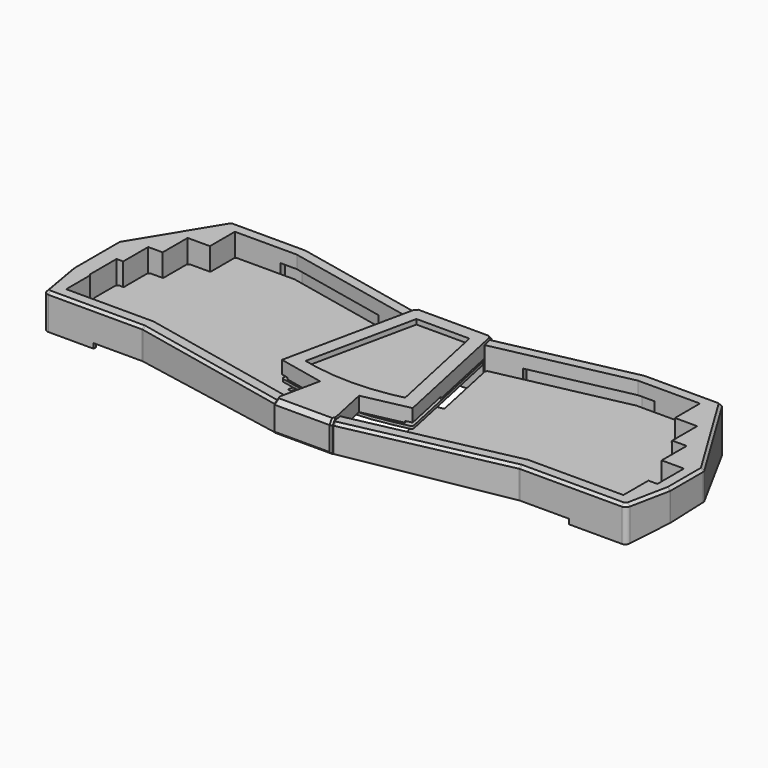
from build123d import *

# Parameters (mm, degrees)
PAD_DEPTH       = 1.6
FILLET_R        = 1.5
FILLET001_R     = 0.8
PAD001_DEPTH    = 40
POCKET_DEPTH    = 400
POCKET001_DEPTH = 50
POCKET001_TAPER = 70
POCKET002_DEPTH = 50
POCKET002_TAPER = 70
POCKET003_DEPTH = 3
POCKET005_DEPTH = 16.8
POCKET007_DEPTH = 22
POCKET012_DEPTH = 59
PAD006_DEPTH    = 3.5
PAD007_DEPTH    = 3.5
SKETCH026_W     = 15
SKETCH026_H     = 4
PAD008_DEPTH    = 3.5
SKETCH027_W     = 15
SKETCH027_H     = 4
PAD009_DEPTH    = 3.5
FILLET003_R     = 8
FILLET004_R     = 3
CHAMFER_SIZE    = 1.6
POCKET019_DEPTH = 200
SKETCH038_R     = 2
POCKET025_DEPTH = 6.7
PAD015_DEPTH    = 3.5
PAD016_DEPTH    = 3.5
POCKET035_DEPTH = 115
PAD010_DEPTH    = 1.6
FILLET002_R     = 1.5
PAD011_DEPTH    = 28.4
POCKET017_DEPTH = 50
POCKET018_DEPTH = 19.6
POCKET020_DEPTH = 26
POCKET021_DEPTH = 16
POCKET022_DEPTH = 19
POCKET023_DEPTH = 25
POCKET024_DEPTH = 1
CHAMFER001_SIZE = 2.6
CHAMFER002_SIZE = 1.2
SKETCH045_R     = 4.5
SKETCH045_R_2   = 2
PAD013_DEPTH    = 5.6
SKETCH046_R     = 2
POCKET030_DEPTH = 6.7
SKETCH047_R     = 2
POCKET031_DEPTH = 5.7
POCKET032_DEPTH = 13
CHAMFER003_SIZE = 1
SKETCH054_R     = 3.6
SKETCH054_R_2   = 2
PAD014_DEPTH    = 1
SKETCH055_W     = 19
SKETCH055_H     = 36
POCKET033_DEPTH = 1
PAD017_DEPTH    = 8
PAD018_DEPTH    = 8
FILLET005_R     = 1
POCKET036_DEPTH = 3


with BuildPart() as pcb:
    # Sketch001 → Pad (new body)
    with BuildSketch(Plane.XY):
        with BuildLine():
            Line((-25.6569009013, 76.7143133761), (-104.1862885277, 93.40625))
            Line((-104.1862885277, 93.40625), (-140.3865264554, 93.40625))
            Line((-140.3865264554, 93.40625), (-140.3865264554, 74.35625))
            Line((-140.3865264554, 74.35625), (-153.9607289552, 74.35625))
            Line((-153.9607289552, 74.35625), (-153.9607289552, 55.30625))
            Line((-153.9607289552, 55.30625), (-162.772431455, 55.30625))
            Line((-162.772431455, 55.30625), (-162.772431455, 36.25625))
            Line((-162.772431455, 36.25625), (-166.8216339549, 36.25625))
            Line((-166.8216339549, 36.25625), (-166.8216339549, 18.7896622428))
            Line((-166.8216339549, 18.7896622428), (-166.1083364547, 18.0000001221))
            Line((-166.1083364547, 18.0000001221), (-166.1083364547, -0.25625))
            Line((-166.1083364547, -0.25625), (-114.0306139632, -0.25625))
            Line((-114.0306139632, -0.25625), (-33.0319665059, -17.4730440034))
            ThreePointArc((-33.0319665059, -17.4730440034), (0, -21.0075427473), (33.0319665059, -17.4730440034))
            Line((114.0306139632, -0.25625), (33.0319665059, -17.4730440034))
            Line((114.0306139632, -0.25625), (170.8708364547, -0.25625))
            Line((170.8708364547, -0.25625), (170.8708364547, 18.79375))
            Line((170.8708364547, 18.79375), (176.3466339549, 18.79375))
            Line((176.3466339549, 18.79375), (176.3466339549, 36.25625))
            Line((176.3466339549, 36.25625), (162.772431455, 36.25625))
            Line((162.772431455, 36.25625), (162.772431455, 55.30625))
            Line((162.772431455, 55.30625), (153.9607289552, 55.30625))
            Line((153.9607289552, 55.30625), (153.9607289552, 74.35625))
            Line((153.9607289552, 74.35625), (140.3865264554, 74.35625))
            Line((140.3865264554, 74.35625), (140.3865264554, 93.40625))
            Line((140.3865264554, 93.40625), (104.1862885277, 93.40625))
            Line((104.1862885277, 93.40625), (25.6569009013, 76.7143133761))
            Line((34.7896818101, 33.7479573294), (25.6569009013, 76.7143133761))
            Line((29.5137981886, 32.626533647), (34.7896818101, 33.7479573294))
            Line((35.8509465247, 2.8125947766), (29.5137981886, 32.626533647))
            ThreePointArc((-35.8509465247, 2.8125947766), (0, -2.07), (35.8509465247, 2.8125947766))
            Line((-35.8509465247, 2.8125947766), (-29.5137981886, 32.626533647))
            Line((-29.5137981886, 32.626533647), (-34.7896818101, 33.7479573294))
            Line((-34.7896818101, 33.7479573294), (-25.6569009013, 76.7143133761))
        make_face()
    extrude(amount=PAD_DEPTH)

    # Fillet
    fillet_edges = [pcb.edges().sort_by_distance(p)[0] for p in [
        (-166.108336, -0.25625, 0.8),
        (-166.821634, 36.25625, 0.8),
        (-162.772431, 55.30625, 0.8),
        (-153.960729, 74.35625, 0.8),
        (-140.386526, 93.40625, 0.8),
        (-25.656901, 76.714313, 0.8),
        (25.656901, 76.714313, 0.8),
        (140.386526, 93.40625, 0.8),
        (153.960729, 74.35625, 0.8),
        (162.772431, 55.30625, 0.8),
        (176.346634, 36.25625, 0.8),
        (176.346634, 18.79375, 0.8),
        (170.870836, -0.25625, 0.8),
        (-114.030614, -0.25625, 0.8),
        (114.030614, -0.25625, 0.8),
        (-104.186289, 93.40625, 0.8),
        (104.186289, 93.40625, 0.8),
    ]]
    fillet(fillet_edges, radius=FILLET_R)

    # Fillet001
    fillet001_edges = [pcb.edges().sort_by_distance(p)[0] for p in [
        (-34.789682, 33.747957, 0.8),
        (-29.513798, 32.626534, 0.8),
        (-35.850947, 2.812595, 0.8),
        (-140.386526, 74.35625, 0.8),
        (-153.960729, 55.30625, 0.8),
        (-162.772431, 36.25625, 0.8),
        (-166.108336, 18, 0.8),
        (-166.821634, 18.789662, 0.8),
        (35.850947, 2.812595, 0.8),
        (29.513798, 32.626534, 0.8),
        (34.789682, 33.747957, 0.8),
        (140.386526, 74.35625, 0.8),
        (153.960729, 55.30625, 0.8),
        (162.772431, 36.25625, 0.8),
        (170.870836, 18.79375, 0.8),
    ]]
    fillet(fillet001_edges, radius=FILLET001_R)


with BuildPart() as pcb_1:
    # Body001 placement: moved
    add(pcb.part.moved(Location((0, 0, 5.4))))


with BuildPart() as body002:
    # Sketch002 → Pad001 (new body)
    with BuildSketch(Plane.XY.offset(-20.2)):
        Polygon((-149.4960240693, 102.2), (-179.6153839549, 52.8352871714), (-179.6153839549, 18), (-174.9020864547, -9.05), (-114.9548743321, -9.05), (-18.2317807246, -29.6091282113), (18.2317807246, -29.6091282113), (114.9548743321, -9.05), (179.6645864547, -9.05), (185.1403839549, 18), (185.1403839549, 43.7799805707), (149.4960240693, 102.2), (103.2620281588, 102.2), (23.0521728121, 85.1508689355), (-23.0521728121, 85.1508689355), (-103.2620281588, 102.2), align=None)
    extrude(amount=PAD001_DEPTH)

    # Sketch004 → Pocket (cut)
    with BuildSketch(Plane.YZ.offset(200)):
        Polygon((-29.6091282113, 0), (427.5929638991, -40), (-34.6091282113, -40), (-34.6091282113, 0), align=None)
    extrude(amount=-POCKET_DEPTH, mode=Mode.SUBTRACT)

    # Sketch005 (on Face2 of Pocket) → Pocket001 (cut)
    with BuildSketch(Plane(origin=(0, -0.2249145944, -2.5707855781), x_dir=(1, 0, 0), z_dir=(0, -0.0871557427, -0.9961946981))):
        Polygon((179.664586, 8.858796), (139.4960240693, -102.8161611286), (-829.867004, -717.988555), (0, -4000), (8000, 0), (0, 4000), (-701.29071, 993.332806), align=None)
    extrude(amount=-POCKET001_DEPTH, taper=POCKET001_TAPER, mode=Mode.SUBTRACT)

    # Sketch006 (on Face2 of Pocket001) → Pocket002 (cut)
    with BuildSketch(Plane(origin=(0, -0.2249145944, -2.5707855781), x_dir=(1, 0, 0), z_dir=(0, -0.0871557427, -0.9961946981))):
        Polygon((-174.9020864547, 8.8587957981), (-139.4960240693, -102.8161611286), (0, -4000), (-8000, 0), (0, 4000), align=None)
    extrude(amount=-POCKET002_DEPTH, taper=POCKET002_TAPER, mode=Mode.SUBTRACT)

    # Sketch007 (on Face19 of Pocket002) → Pocket003 (cut)
    with BuildSketch(Plane(origin=(0, -0.2249145944, -2.5707855781), x_dir=(1, 0, 0), z_dir=(0, -0.0871557427, -0.9961946981))):
        Polygon((-172.1698836043, 6.8587957981), (-144.9548743321, 6.8587957981), (-144.9548743321, 8.8587957981), (-144.9548743321, 29.4964565392), (-88.6830095072, 29.4964565392), (0, 55.200555), (88.6830096055, 29.496457), (144.9548743321, 29.496457), (144.9548743321, 8.8587957981), (144.9548743321, 6.8587957981), (176.8197582998, 6.8587957981), (138.0899634837, -100.8161611286), (103.4730219471, -100.8161611286), (72.3688065106, -94.1795015486), (71.9514637892, -96.1354731877), (70.5260154697, -102.8161611286), (-70.5260154697, -102.8161611286), (-71.9514637892, -96.1354731877), (-72.3688065106, -94.1795015486), (-103.4730219471, -100.8161611286), (-138.0320039292, -100.8161611286), align=None)
    extrude(amount=-POCKET003_DEPTH, mode=Mode.SUBTRACT)

    # Sketch003 → Pocket005 (cut)
    with BuildSketch(Plane.XY.offset(19.8)):
        Polygon((-141.7802764554, 94.8), (-141.7802764554, 75.75), (-155.3544789552, 75.75), (-155.3544789552, 56.7), (-164.166181455, 56.7), (-164.166181455, 37.65), (-168.2153839549, 37.65), (-168.2153839549, 17.4), (-167.5020864547, 16.6867024998), (-167.5020864547, -1.65), (-152.5020864547, -1.65), (-126.7802764554, 94.8), align=None)
        Polygon((157.2645864547, -1.65), (172.2645864547, -1.65), (172.2645864547, 17.4), (177.7403839549, 17.4), (177.7403839549, 37.65), (164.166181455, 37.65), (164.166181455, 56.7), (155.3544789552, 56.7), (155.3544789552, 75.75), (141.7802764554, 75.75), (141.7802764554, 94.8), (126.7802764554, 94.8), align=None)
    extrude(amount=-POCKET005_DEPTH, mode=Mode.SUBTRACT)

    # Sketch012 → Pocket007 (cut)
    with BuildSketch(Plane.XY.offset(-10)):
        Polygon((-44.2784183533, 81.4839219459), (-43.4259804209, 85.4943271089), (-103.6719346763, 98.3), (-114.0802764554, 98.3), (-114.0802764554, 94.2), (-149.2770864547, -1.05), (-149.2770864547, -5.15), (-114.5449678146, -5.15), (-42.8527627495, -20.3886486072), (-42.0003248171, -16.3782434442), (-111.178681455, 37.05), align=None)
        Polygon((44.2784183533, 81.4839219459), (43.4259804209, 85.4943271089), (103.6719346763, 98.3), (114.0802764554, 98.3), (114.0802764554, 94.2), (149.2770864547, -1.05), (149.2770864547, -5.15), (114.5449678146, -5.15), (42.8527627495, -20.3886486072), (42.0003248171, -16.3782434442), (111.178681455, 37.05), align=None)
    extrude(amount=POCKET007_DEPTH, mode=Mode.SUBTRACT)

    # Sketch017 → Pocket012 (cut)
    with BuildSketch(Plane.XY.offset(40)):
        Polygon((-164.7812608877, -1.65), (-114.1771029911, -1.65), (-16.6932414892, -22.3708344192), (16.6932414892, -22.3708344192), (114.1771029911, -1.65), (169.1251097712, -1.65), (134.3003201796, 94.8), (104.0397994998, 94.8), (24.5907120235, 77.9125751382), (-24.5907120235, 77.9125751382), (-104.0397994998, 94.8), (-134.0853982624, 94.8), align=None)
    extrude(amount=-POCKET012_DEPTH, mode=Mode.SUBTRACT)

    # Sketch024 (on Face92 of Pocket012) → Pad006 (join)
    with BuildSketch(Plane(origin=(-5.9988132418, -28.2221973985, 0), x_dir=(-0.9781476007, 0.2079116908, 0), z_dir=(0.2079116908, 0.9781476007, 0))):
        Polygon((47.675634708, 2.0229030007), (47.675634708, 6.0229030006), (62.6731537758, 5.7500993892), (62.6731537758, 1.7500993892), align=None)
    extrude(amount=PAD006_DEPTH)

    # Sketch025 (on Face94 of Pad006) → Pad007 (join)
    with BuildSketch(Plane(origin=(5.9988132418, -28.2221973985, 0), x_dir=(-0.9781476007, -0.2079116908, 0), z_dir=(-0.2079116908, 0.9781476007, 0))):
        Polygon((-47.675634708, 2.0229030007), (-47.675634708, 6.0229030007), (-62.6731537758, 5.7500993892), (-62.6731537758, 1.7500993892), align=None)
    extrude(amount=PAD007_DEPTH)

    # Sketch026 (on Face91 of Pad007) → Pad008 (join)
    with BuildSketch(Plane(origin=(0, -5.15, 0), x_dir=(-1, 0, 0), z_dir=(0, 1, 0))):
        with Locations((131.7770864547, 2.8715630744)):
            Rectangle(SKETCH026_W, SKETCH026_H)
    extrude(amount=PAD008_DEPTH)

    # Sketch027 (on Face97 of Pad008) → Pad009 (join)
    with BuildSketch(Plane(origin=(0, -5.15, 0), x_dir=(-1, 0, 0), z_dir=(0, 1, 0))):
        with Locations((-131.7770864547, 2.8715630744)):
            Rectangle(SKETCH027_W, SKETCH027_H)
    extrude(amount=PAD009_DEPTH)

    # Fillet003
    fillet003_edges = [body002.edges().sort_by_distance(p)[0] for p in [
        (134.30032, 94.8, -2.436464),
        (138.089963, 100.338344, -9.863201),
        (-134.085398, 94.8, -2.436464),
        (-138.032004, 100.338344, -9.863201),
        (169.12511, -1.65, 1.782676),
        (176.819758, -6.926877, -0.47871),
        (-164.781261, -1.65, 1.782676),
        (-172.169884, -6.926877, -0.47871),
    ]]
    fillet(fillet003_edges, radius=FILLET003_R)

    # Fillet004
    fillet004_edges = [body002.edges().sort_by_distance(p)[0] for p in [
        (-174.902086, -9.05, 9.000655),
        (-179.615384, 18, 10.115146),
        (-179.615384, 52.835287, 10.503488),
        (-149.496024, 102.2, 5.858877),
        (-114.954874, -9.05, 10.506384),
        (-18.231781, -29.609128, 11.40573),
        (18.231781, -29.609128, 11.40573),
        (114.954874, -9.05, 10.506384),
        (179.664586, -9.05, 9.000655),
        (185.140384, 18, 10.409616),
        (185.140384, 43.779981, 10.864903),
        (149.496024, 102.2, 5.834753),
        (103.262028, 102.2, 4.134098),
        (23.052173, 85.150869, 6.38563),
        (-23.052173, 85.150869, 6.38563),
        (-103.262028, 102.2, 4.134098),
    ]]
    fillet(fillet004_edges, radius=FILLET004_R)

    # Chamfer
    chamfer_edges = [body002.edges().sort_by_distance(p)[0] for p in [
        (-177.452971, 5.589733, 19.8),
    ]]
    chamfer(chamfer_edges, length=CHAMFER_SIZE)

    # Sketch032 → Pocket019 (cut)
    with BuildSketch(Plane.XY):
        Polygon((-10, -38.338413), (10, -38.338413), (10, -15.045521), (10, 62.395123), (10, 94.439026), (-10, 94.439026), (-10, 62.395123), (-10, -15.045521), align=None)
    extrude(amount=POCKET019_DEPTH, mode=Mode.SUBTRACT)

    # Sketch038 (on Face53 of Pocket019) → Pocket025 (cut)
    with BuildSketch(Plane(origin=(0, 0.0365526338, 0.4177985162), x_dir=(1, 0, 0), z_dir=(0, -0.0871557427, -0.9961946981))):
        with Locations((-152.8770864547, 4.7929949909)):
            Circle(SKETCH038_R)
        with Locations((-117.6802764554, -98.7254283402)):
            Circle(SKETCH038_R)
        with Locations((117.6802764554, -98.7254283402)):
            Circle(SKETCH038_R)
        with Locations((152.8770864547, 4.7929949909)):
            Circle(SKETCH038_R)
        with Locations((31.1362598613, 23.092329532)):
            Circle(SKETCH038_R)
        with Locations((-31.1362598613, 23.092329532)):
            Circle(SKETCH038_R)
        with Locations((-31.6633816813, -83.3636160948)):
            Circle(SKETCH038_R)
        with Locations((31.6633816813, -83.3636160948)):
            Circle(SKETCH038_R)
    extrude(amount=-POCKET025_DEPTH, mode=Mode.SUBTRACT)

    # Sketch057 (on Face148 of Pocket025) → Pad015 (join)
    with BuildSketch(Plane(origin=(15.5096511733, 72.9671718974, 0), x_dir=(0.9781476007, -0.2079116908, 0), z_dir=(-0.2079116908, -0.9781476007, 0))):
        Polygon((-85.2481537758, -7.1133944772), (-70.250634708, -6.8405908657), (-70.250634708, -2.8405908657), (-85.2481537758, -3.1133944772), align=None)
    extrude(amount=PAD015_DEPTH)

    # Sketch058 (on Face151 of Pad015) → Pad016 (join)
    with BuildSketch(Plane(origin=(-15.5096511733, 72.9671718974, 0), x_dir=(0.9781476007, 0.2079116908, 0), z_dir=(0.2079116908, -0.9781476007, 0))):
        Polygon((70.250634708, -6.8406570349), (85.2481537758, -7.1134606463), (85.2481537758, -3.1134606463), (70.250634708, -2.8406570349), align=None)
    extrude(amount=PAD016_DEPTH)

    # Sketch061 (on Face13 of Pad016) → Pocket035 (cut, symmetric)
    with BuildSketch(Plane.XZ.offset(-77.9125751382)):
        Polygon((-10, 14.8), (-15, 9.8), (-10, 4.8), align=None)
        Polygon((10, 14.8), (15, 9.8), (10, 4.8), align=None)
    extrude(amount=POCKET035_DEPTH, both=True, mode=Mode.SUBTRACT)


with BuildPart() as pcb_core:
    # Sketch028 → Pad010 (new body)
    with BuildSketch(Plane.XY):
        with BuildLine():
            Line((-24.2903297212, 76.8006881296), (24.2903297212, 76.8006881296))
            Line((24.2903297212, 76.8006881296), (39.9356560509, 3.1952148064))
            Line((39.9356560509, 3.1952148064), (29.998245005, 1.0829528826))
            ThreePointArc((-29.998245005, 1.0829528826), (0, -2.07), (29.998245005, 1.0829528826))
            Line((-39.9356560509, 3.1952148064), (-29.998245005, 1.0829528826))
            Line((-39.9356560509, 3.1952148064), (-24.2903297212, 76.8006881296))
        make_face()
    extrude(amount=PAD010_DEPTH)

    # Fillet002
    fillet002_edges = [pcb_core.edges().sort_by_distance(p)[0] for p in [
        (-39.935656, 3.195215, 0.8),
        (-24.29033, 76.800688, 0.8),
        (24.29033, 76.800688, 0.8),
        (39.935656, 3.195215, 0.8),
    ]]
    fillet(fillet002_edges, radius=FILLET002_R)


with BuildPart() as pcb_core_1:
    # Body007 placement: moved
    add(pcb_core.part.moved(Location((0, 0, 10))))


with BuildPart() as case_core:
    # Sketch029 → Pad011 (new body)
    with BuildSketch(Plane.XY):
        Polygon((-17.9584668663, -31.2091282113), (-11.8943740038, -2.6798143436), (-39.844852054, 3.2612431678), (-22.0854419765, 86.7508689355), (22.0986779565, 86.7508689355), (39.846701604, 3.2529824996), (11.896133913, -2.6880940655), (17.9584668663, -31.2091282113), align=None)
    extrude(amount=PAD011_DEPTH)

    # Sketch030 → Pocket017 (cut, symmetric)
    with BuildSketch(Plane.YZ):
        Polygon((-31.2091282114, 0), (-31.2091282114, 10.1399818616), (84.6913948162, 0), align=None)
    extrude(amount=POCKET017_DEPTH, both=True, mode=Mode.SUBTRACT)

    # Sketch031 → Pocket018 (cut)
    with BuildSketch(Plane.XY):
        with BuildLine():
            Line((171.6645864547, -20.7708337586), (171.6645864547, 76.7508689355))
            Line((171.6645864547, 76.7508689355), (-166.9020864547, 76.7508689355))
            Line((-166.9020864547, 76.7508689355), (-166.9020864547, -20.7708337586))
            Line((-166.9020864547, -20.7708337586), (-14.6128973912, -20.7708337586))
            ThreePointArc((-14.6128973912, -20.7708337586), (0, -21.3708337586), (14.6128973912, -20.7708337586))
            Line((171.6645864547, -20.7708337586), (14.6128973912, -20.7708337586))
        make_face()
    extrude(amount=POCKET018_DEPTH, mode=Mode.SUBTRACT)

    # Sketch033 → Pocket020 (cut)
    with BuildSketch(Plane.YZ.offset(-9.6)):
        Polygon((-29.6091282114, -7.025155), (-29.6091282114, 25.2), (-28.0091282114, 26.8), (-22.3708337586, 26.8), (-22.3708337586, -7.025155), align=None)
    extrude(amount=-POCKET020_DEPTH, mode=Mode.SUBTRACT)

    # Sketch034 → Pocket021 (cut)
    with BuildSketch(Plane.YZ.offset(-9.6)):
        Polygon((85.1508689355, -10.772844), (85.1508689355, 25.2), (83.5508689355, 26.8), (77.9108689355, 26.8), (77.9108689355, -10.772844), align=None)
    extrude(amount=-POCKET021_DEPTH, mode=Mode.SUBTRACT)

    # Sketch035 → Pocket022 (cut)
    with BuildSketch(Plane.YZ.offset(9.6)):
        Polygon((-29.6091282114, -7.025155), (-29.6091282114, 25.2), (-28.0091282114, 26.8), (-22.3708337586, 26.8), (-22.3708337586, -7.025155), align=None)
    extrude(amount=POCKET022_DEPTH, mode=Mode.SUBTRACT)

    # Sketch036 → Pocket023 (cut)
    with BuildSketch(Plane.YZ.offset(9.6)):
        Polygon((85.1508689355, -10.772844), (85.1508689355, 25.2), (83.5508689355, 26.8), (77.9108689355, 26.8), (77.9108689355, -10.772844), align=None)
    extrude(amount=POCKET023_DEPTH, mode=Mode.SUBTRACT)

    # Sketch037 (on Face2 of Pocket023) → Pocket024 (cut)
    with BuildSketch(Plane(origin=(0, 0, 19.6), x_dir=(1, 0, 0), z_dir=(0, 0, -1))):
        Polygon((-39.844852054, -3.2612431678), (-35.9322616511, -2.4295964045), (-29.6904916408, -31.7730847305), (-33.6030820438, -32.6047314938), align=None)
        Polygon((35.934111201, -2.4213357363), (29.6967604765, -31.7657637584), (33.6093508794, -32.5974105216), (39.846701604, -3.2529824996), align=None)
    extrude(amount=-POCKET024_DEPTH, mode=Mode.SUBTRACT)

    # Chamfer001
    chamfer001_edges = [case_core.edges().sort_by_distance(p)[0] for p in [
        (0, -31.209128, 28.4),
        (0.006618, 86.750869, 28.4),
    ]]
    chamfer(chamfer001_edges, length=CHAMFER001_SIZE)

    # Chamfer002
    chamfer002_edges = [case_core.edges().sort_by_distance(p)[0] for p in [
        (0, -31.209128, 10.139982),
        (0.006618, 86.750869, 0),
        (17.958467, -31.209128, 17.969991),
        (-17.958467, -31.209128, 17.969991),
        (-17.682143, -29.909128, 27.1),
        (17.682143, -29.909128, 27.1),
        (22.098678, 86.750869, 12.9),
        (22.375001, 85.450869, 27.1),
        (-22.36197, 85.450869, 27.1),
        (-22.085442, 86.750869, 12.9),
    ]]
    chamfer(chamfer002_edges, length=CHAMFER002_SIZE)

    # Sketch045 → Pad013 (join)
    with BuildSketch(Plane.XY.offset(19.6)):
        with Locations((0, -10.4867326534)):
            Circle(SKETCH045_R)
        with Locations((0, -10.4867326534)):
            Circle(SKETCH045_R_2, mode=Mode.SUBTRACT)
    extrude(amount=-PAD013_DEPTH)

    # Sketch046 (on Face55 of Pad013) → Pocket030 (cut)
    with BuildSketch(Plane(origin=(0, 0, 14), x_dir=(1, 0, 0), z_dir=(0, 0, -1))):
        with Locations((0, 10.4867326534)):
            Circle(SKETCH046_R)
    extrude(amount=-POCKET030_DEPTH, mode=Mode.SUBTRACT)

    # Sketch047 → Pocket031 (cut)
    with BuildSketch(Plane.XY.offset(18.6)):
        with Locations((-20.778249147, 72.3256881296)):
            Circle(SKETCH047_R)
        with Locations((20.778249147, 72.3256881296)):
            Circle(SKETCH047_R)
    extrude(amount=POCKET031_DEPTH, mode=Mode.SUBTRACT)

    # Sketch048 (on Face30 of Pocket031) → Pocket032 (cut)
    with BuildSketch(Plane.XZ.offset(-76.7508689355)):
        with BuildLine():
            ThreePointArc((-4, 13.5), (-7.5, 10), (-4, 6.5))
            Line((-4, 6.5), (4, 6.5))
            ThreePointArc((4, 6.5), (7.5, 10), (4, 13.5))
            Line((4, 13.5), (-4, 13.5))
        make_face()
    extrude(amount=-POCKET032_DEPTH, mode=Mode.SUBTRACT)

    # Chamfer003
    chamfer003_edges = [case_core.edges().sort_by_distance(p)[0] for p in [
        (0, 86.750869, 13.5),
        (0, 86.750869, 6.5),
        (-7.5, 86.750869, 10),
        (7.5, 86.750869, 10),
        (-7.5, 76.750869, 10),
        (0, 76.750869, 13.5),
        (7.5, 76.750869, 10),
        (0, 76.750869, 6.5),
    ]]
    chamfer(chamfer003_edges, length=CHAMFER003_SIZE)

    # Sketch054 → Pad014 (join)
    with BuildSketch(Plane.XY.offset(19.6)):
        with Locations((-20.778249147, 72.3256881296)):
            Circle(SKETCH054_R)
        with Locations((-20.778249147, 72.3256881296)):
            Circle(SKETCH054_R_2, mode=Mode.SUBTRACT)
        with Locations((20.778249147, 72.3256881296)):
            Circle(SKETCH054_R)
        with Locations((20.778249147, 72.3256881296)):
            Circle(SKETCH054_R_2, mode=Mode.SUBTRACT)
    extrude(amount=-PAD014_DEPTH)

    # Sketch055 (on Face7 of Pad014) → Pocket033 (cut)
    with BuildSketch(Plane(origin=(0, 0, 19.6), x_dir=(1, 0, 0), z_dir=(0, 0, -1))):
        with Locations((0, -58.7508689355)):
            Rectangle(SKETCH055_W, SKETCH055_H)
    extrude(amount=-POCKET033_DEPTH, mode=Mode.SUBTRACT)

    # Sketch060 (on Face23 of Pocket033) → Pad017 (join)
    with BuildSketch(Plane.XZ.offset(-85.1508689355)):
        Polygon((9.6, 11.8), (14.6, 16.8), (9.6, 21.8), align=None)
        Polygon((-9.6, 21.8), (-14.6, 16.8), (-9.6, 11.8), align=None)
    extrude(amount=PAD017_DEPTH)

    # Sketch062 (on Face68 of Pad017) → Pad018 (join)
    with BuildSketch(Plane.XZ.offset(22.3708337586)):
        Polygon((9.6, 11.8), (14.6, 16.8), (9.6, 21.8), align=None)
        Polygon((-9.6, 21.8), (-14.6, 16.8), (-9.6, 11.8), align=None)
    extrude(amount=PAD018_DEPTH)

    # Fillet005
    fillet005_edges = [case_core.edges().sort_by_distance(p)[0] for p in [
        (-14.6, -25.989981, 16.8),
        (14.6, -25.989981, 16.8),
        (14.6, 81.530869, 16.8),
        (-14.6, 81.530869, 16.8),
    ]]
    fillet(fillet005_edges, radius=FILLET005_R)

    # Sketch063 (on Face17 of Fillet005) → Pocket036 (cut)
    with BuildSketch(Plane.XY.offset(28.4)):
        with BuildLine():
            Line((-30.3551991378, 9.4228799314), (-16.1612234256, 76.1508689355))
            Line((-16.1612234256, 76.1508689355), (16.1612234256, 76.1508689355))
            Line((16.1612234256, 76.1508689355), (30.3551991378, 9.4228799314))
            Line((30.3551991378, 9.4228799314), (22.8234626122, 7.8219599121))
            ThreePointArc((-22.8234626122, 7.8219599121), (0, 5.7524981094), (22.8234626122, 7.8219599121))
            Line((-30.3551991378, 9.4228799314), (-22.8234626122, 7.8219599121))
        make_face()
    extrude(amount=-POCKET036_DEPTH, mode=Mode.SUBTRACT)


with BuildPart() as case_core_1:
    # Body008 placement: moved
    add(case_core.part.moved(Location((0, 0, -7))))


solid = Compound([pcb_1.part, body002.part, pcb_core_1.part, case_core_1.part])
